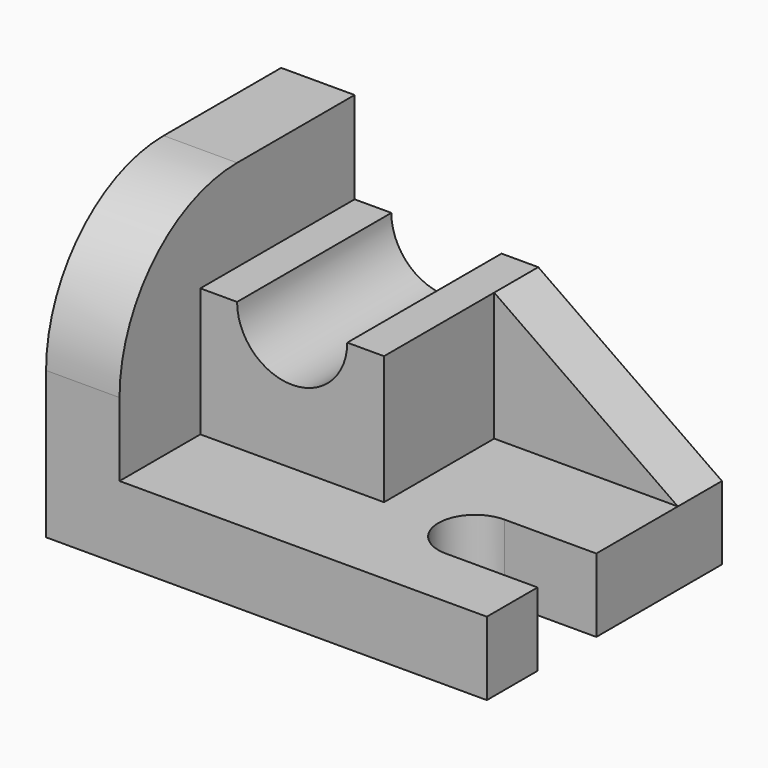
from build123d import *

# Parameters (mm, degrees)
F0_W      = 2438.4
F0_H      = 1625.6
F1_DEPTH  = 406.4
F2_W      = 1625.6
F2_H      = 1625.6
F3_DEPTH  = 406.4
F4_W      = 1016
F4_H      = 1066.8
F5_DEPTH  = 711.2
F8_R      = 812.8
F9_W      = 304.8
F9_H      = 711.2
F10_DEPTH = 1016
F14_DEPTH = 574.04


with BuildPart() as f1:
    # F0 (on Top) → F1 (new body)
    with BuildSketch(Plane.XY):
        with Locations((38.1513122704, -2.3237429559)):
            Rectangle(F0_W, F0_H)
    extrude(amount=F1_DEPTH)

    # F2 (on face) → F3 (join)
    with BuildSketch(Plane(origin=(-1181.0486877296, 0, 0), x_dir=(0, -1, 0), z_dir=(-1, 0, 0))):
        with Locations((2.3237429559, 812.8)):
            Rectangle(F2_W, F2_H)
    extrude(amount=-F3_DEPTH)

    # F4 (on face) → F5 (join)
    with BuildSketch(Plane.XY.offset(406.4)):
        with Locations((-266.6486877296, 277.0762570441)):
            Rectangle(F4_W, F4_H)
    extrude(amount=F5_DEPTH)

    # F7: sweep along a path in F7_path
    with BuildLine(Plane(origin=(241.3513122704, -256.3237429559, 1117.6), x_dir=(0, -1, 0), z_dir=(0, 0, -1))) as f7_path:
        Line((0, 0), (-1066.8, 0))
    # F6 (on face) → F7 (sweep, cut)
    with BuildSketch(Plane.XZ.offset(256.3237429559)):
        with BuildLine():
            ThreePointArc((-571.4486877296, 1117.6), (-266.6486877296, 812.8), (38.1513122704, 1117.6))
            Line((38.1513122704, 1117.6), (-571.4486877296, 1117.6))
        make_face()
    sweep(path=f7_path.line, mode=Mode.SUBTRACT)

    # F8
    f8_edges = [f1.edges().sort_by_distance(p)[0] for p in [
        (-977.848688, -815.123743, 1625.6),
    ]]
    fillet(f8_edges, radius=F8_R)

    # F9 (on face) → F10 (join)
    with BuildSketch(Plane.YZ.offset(241.3513122704)):
        with Locations((658.0762570441, 762)):
            Rectangle(F9_W, F9_H)
    extrude(amount=F10_DEPTH)

    # F12: sweep along a path in F12_path
    with BuildLine(Plane(origin=(1257.3513122704, 505.6762570441, 1117.6), x_dir=(0, -1, 0), z_dir=(0, 0, -1))) as f12_path:
        Line((0, 0), (-304.8, 0))
    # F11 (on face) → F12 (sweep, cut)
    with BuildSketch(Plane.XZ.offset(-505.6762570441)):
        Polygon((1257.3513122704, 1117.6), (241.3513122704, 1117.6), (1257.3513122704, 406.4), align=None)
    sweep(path=f12_path.line, mode=Mode.SUBTRACT)

    # F13 (on face) → F14 (cut)
    with BuildSketch(Plane.XY.offset(406.4)):
        with BuildLine():
            Line((749.3704638481, -464.4222796372), (1257.3704638481, -464.4222796372))
            Line((1257.3704638481, -464.4222796372), (1257.3704638481, -58.0222796372))
            Line((1257.3704638481, -58.0222796372), (749.3704638481, -58.0222796372))
            ThreePointArc((749.3704638481, -58.0222796372), (893.0545617852, -117.5381817001), (952.5704638481, -261.2222796372))
            ThreePointArc((952.5704638481, -261.2222796372), (893.0545617852, -404.9063775744), (749.3704638481, -464.4222796372))
        make_face()
        with BuildLine():
            ThreePointArc((749.3704638481, -58.0222796372), (546.1704638481, -261.2222796372), (749.3704638481, -464.4222796372))
            Line((749.3704638481, -464.4222796372), (749.3704638481, -58.0222796372))
        make_face()
        with BuildLine():
            Line((749.3704638481, -58.0222796372), (749.3704638481, -464.4222796372))
            ThreePointArc((749.3704638481, -464.4222796372), (893.0545617852, -404.9063775744), (952.5704638481, -261.2222796372))
            ThreePointArc((952.5704638481, -261.2222796372), (893.0545617852, -117.5381817001), (749.3704638481, -58.0222796372))
        make_face()
    extrude(amount=-F14_DEPTH, mode=Mode.SUBTRACT)


solid = f1.part
